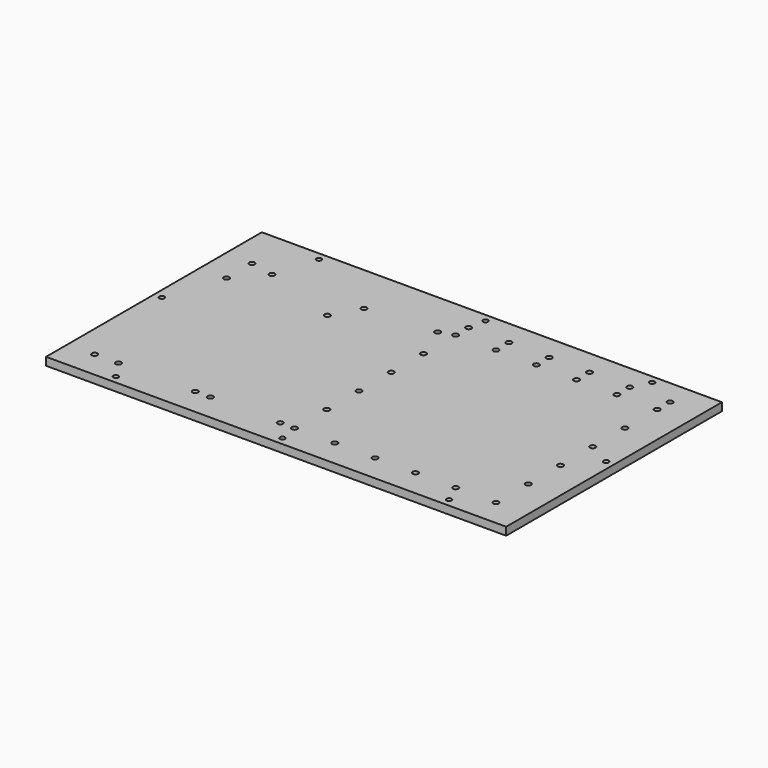
from build123d import *

# Parameters (mm, degrees)
F0_R     = 1.75
F0_R_2   = 1.6
F1_DEPTH = 5


with BuildPart() as f1:
    # F0 (on Top) → F1 (new body)
    with BuildSketch(Plane.XY):
        Polygon((-105.232062, 90.220991), (-139.232062, 90.220991), (-139.232062, 65.220991), (-139.232062, -54.779009), (-139.232062, -79.779009), (-105.232062, -79.779009), (116.767938, -79.779009), (150.767938, -79.779009), (150.767938, -54.779009), (150.767938, 65.220991), (150.767938, 90.220991), (116.767938, 90.220991), align=None)
        with Locations((-122.232062, -62.779009)):
            Circle(F0_R, mode=Mode.SUBTRACT)
        with Locations((-107.232062, -62.779009)):
            Circle(F0_R, mode=Mode.SUBTRACT)
        with Locations((-99.232062, -74.779009)):
            Circle(F0_R_2, mode=Mode.SUBTRACT)
        with Locations((-58.732062, -62.779009)):
            Circle(F0_R, mode=Mode.SUBTRACT)
        with Locations((-49.232062, -62.779009)):
            Circle(F0_R, mode=Mode.SUBTRACT)
        with Locations((-5.232062, -62.779009)):
            Circle(F0_R, mode=Mode.SUBTRACT)
        with Locations((3.767938, -62.779009)):
            Circle(F0_R, mode=Mode.SUBTRACT)
        with Locations((3.767938, -37.379009)):
            Circle(F0_R, mode=Mode.SUBTRACT)
        with Locations((3.767938, -11.979009)):
            Circle(F0_R, mode=Mode.SUBTRACT)
        with Locations((5.767938, -74.779009)):
            Circle(F0_R_2, mode=Mode.SUBTRACT)
        with Locations((29.167938, -62.779009)):
            Circle(F0_R, mode=Mode.SUBTRACT)
        with Locations((54.567938, -62.779009)):
            Circle(F0_R, mode=Mode.SUBTRACT)
        with Locations((110.767938, -74.779009)):
            Circle(F0_R_2, mode=Mode.SUBTRACT)
        with Locations((79.967938, -62.779009)):
            Circle(F0_R, mode=Mode.SUBTRACT)
        with Locations((105.367938, -62.779009)):
            Circle(F0_R, mode=Mode.SUBTRACT)
        with Locations((130.767938, -62.779009)):
            Circle(F0_R, mode=Mode.SUBTRACT)
        with Locations((130.767938, -37.379009)):
            Circle(F0_R, mode=Mode.SUBTRACT)
        with Locations((130.767938, -11.979009)):
            Circle(F0_R, mode=Mode.SUBTRACT)
        with Locations((-134.232062, 5.220991)):
            Circle(F0_R_2, mode=Mode.SUBTRACT)
        with Locations((-122.232062, 41.220991)):
            Circle(F0_R, mode=Mode.SUBTRACT)
        with Locations((3.767938, 13.420991)):
            Circle(F0_R, mode=Mode.SUBTRACT)
        with Locations((-58.732062, 41.220991)):
            Circle(F0_R, mode=Mode.SUBTRACT)
        with Locations((3.767938, 38.820991)):
            Circle(F0_R, mode=Mode.SUBTRACT)
        with Locations((-107.232062, 58.220991)):
            Circle(F0_R, mode=Mode.SUBTRACT)
        with Locations((-122.232062, 61.220991)):
            Circle(F0_R, mode=Mode.SUBTRACT)
        with Locations((-99.232062, 85.220991)):
            Circle(F0_R_2, mode=Mode.SUBTRACT)
        with Locations((-49.232062, 58.220991)):
            Circle(F0_R, mode=Mode.SUBTRACT)
        with Locations((-5.232062, 61.220991)):
            Circle(F0_R, mode=Mode.SUBTRACT)
        with Locations((3.767938, 64.220991)):
            Circle(F0_R, mode=Mode.SUBTRACT)
        with Locations((3.767938, 74.380991)):
            Circle(F0_R, mode=Mode.SUBTRACT)
        with Locations((130.767938, 13.420991)):
            Circle(F0_R, mode=Mode.SUBTRACT)
        with Locations((145.767938, 5.220991)):
            Circle(F0_R_2, mode=Mode.SUBTRACT)
        with Locations((130.767938, 38.820991)):
            Circle(F0_R, mode=Mode.SUBTRACT)
        with Locations((29.167938, 64.220991)):
            Circle(F0_R, mode=Mode.SUBTRACT)
        with Locations((54.567938, 64.220991)):
            Circle(F0_R, mode=Mode.SUBTRACT)
        with Locations((29.167938, 74.380991)):
            Circle(F0_R, mode=Mode.SUBTRACT)
        with Locations((5.767938, 85.220991)):
            Circle(F0_R_2, mode=Mode.SUBTRACT)
        with Locations((54.567938, 74.380991)):
            Circle(F0_R, mode=Mode.SUBTRACT)
        with Locations((79.967938, 64.220991)):
            Circle(F0_R, mode=Mode.SUBTRACT)
        with Locations((105.367938, 64.220991)):
            Circle(F0_R, mode=Mode.SUBTRACT)
        with Locations((130.767938, 64.220991)):
            Circle(F0_R, mode=Mode.SUBTRACT)
        with Locations((79.967938, 74.380991)):
            Circle(F0_R, mode=Mode.SUBTRACT)
        with Locations((105.367938, 74.380991)):
            Circle(F0_R, mode=Mode.SUBTRACT)
        with Locations((110.767938, 85.220991)):
            Circle(F0_R_2, mode=Mode.SUBTRACT)
        with Locations((130.767938, 74.380991)):
            Circle(F0_R, mode=Mode.SUBTRACT)
    extrude(amount=F1_DEPTH)


solid = f1.part
